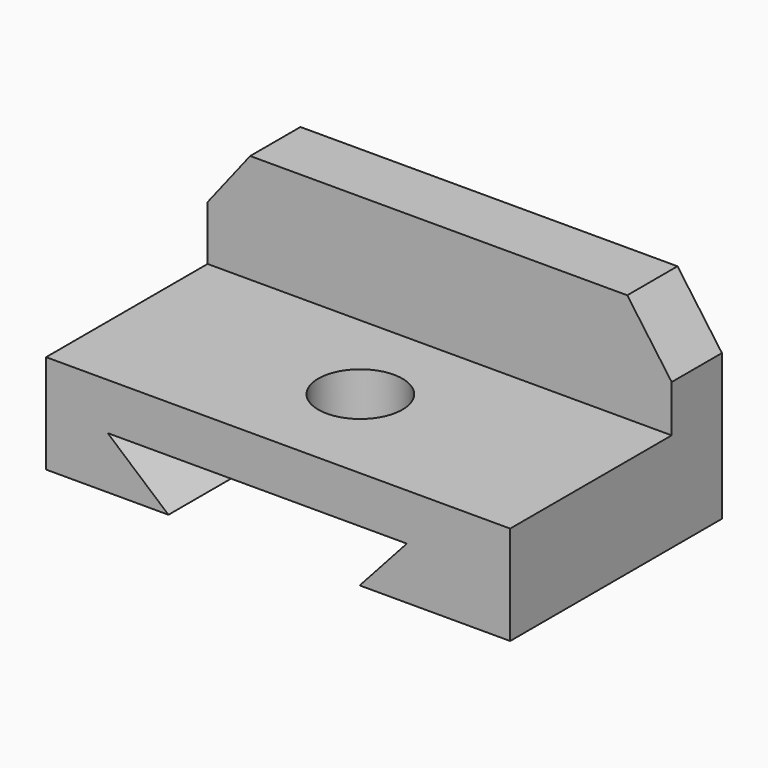
from build123d import *

# Parameters (mm, degrees)
F0_W     = 119.084648788
F0_H     = 67.9154656827
F1_DEPTH = 25.4
F3_DEPTH = 25.4
F4_W     = 119.084648788
F4_H     = 16.1182302982
F5_DEPTH = 27.94
F7_DEPTH = 25.4
F9_DEPTH = 25.4
F12_D    = 21.59


with BuildPart() as f1:
    # F0 (on Top) → F1 (new body)
    with BuildSketch(Plane.XY):
        with Locations((0.348880887, -8.3731394261)):
            Rectangle(F0_W, F0_H)
    extrude(amount=F1_DEPTH)

    # F2 (on face) → F3 (cut)
    with BuildSketch(Plane.XZ.offset(42.3308722675)):
        Polygon((-43.3775149286, 13.3852101862), (-27.7941711247, 0), (21.2817266583, 0), (33.3762653172, 13.3852101862), align=None)
    extrude(amount=-F3_DEPTH, mode=Mode.SUBTRACT)

    # F4 (on face) → F5 (join)
    with BuildSketch(Plane.XY.offset(25.4)):
        with Locations((0.348880887, 17.5254782662)):
            Rectangle(F4_W, F4_H)
    extrude(amount=F5_DEPTH)

    # F6 (on face) → F7 (cut)
    with BuildSketch(Plane.XZ.offset(-9.4663631171)):
        Polygon((-59.193443507, 39.37), (-48.261847347, 53.34), (-59.193443507, 53.34), align=None)
    extrude(amount=-F7_DEPTH, mode=Mode.SUBTRACT)

    # F8 (on face) → F9 (cut)
    with BuildSketch(Plane.XZ.offset(-9.4663631171)):
        Polygon((59.891205281, 53.34), (48.4944358468, 53.34), (59.891205281, 37.4465435743), align=None)
    extrude(amount=-F9_DEPTH, mode=Mode.SUBTRACT)

    # F12 (through all)
    with Locations(Plane.XY.offset(25.4)):
        with Locations((0, -15.5321601778)):
            Hole(F12_D / 2)


solid = f1.part
